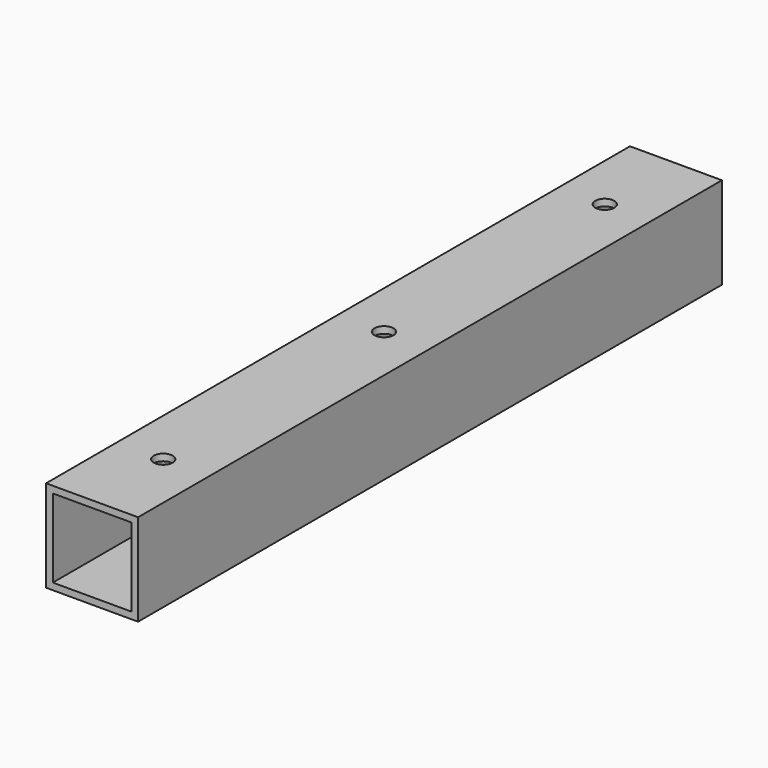
from build123d import *

# Parameters (mm, degrees)
F0_W     = 30
F0_H     = 30
F0_W_2   = 25.6
F0_H_2   = 25.6
F1_DEPTH = 238
F2_R     = 3.1
F3_DEPTH = 35


with BuildPart() as f1:
    # F0 (on Front) → F1 (new body)
    with BuildSketch(Plane.XZ):
        with Locations((15, 15)):
            Rectangle(F0_W, F0_H)
        with Locations((15, 15)):
            Rectangle(F0_W_2, F0_H_2, mode=Mode.SUBTRACT)
    extrude(amount=F1_DEPTH)

    # F2 (on face) → F3 (cut)
    with BuildSketch(Plane.XY.offset(30)):
        with Locations((15, -29)):
            Circle(F2_R)
        with Locations((15, -119)):
            Circle(F2_R)
        with Locations((15, -209)):
            Circle(F2_R)
    extrude(amount=-F3_DEPTH, mode=Mode.SUBTRACT)


solid = f1.part
